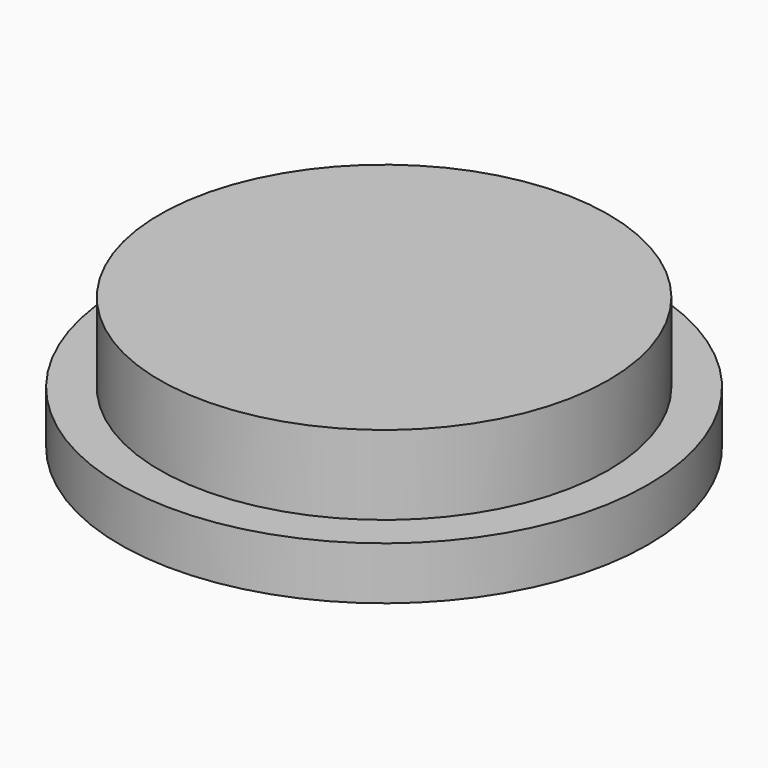
from build123d import *

# Parameters (mm, degrees)
F0_R     = 10
F1_DEPTH = 2.5
F2_R     = 10
F2_R_2   = 8.5
F3_DEPTH = 3
F4_R     = 2.5
F5_DEPTH = 4


with BuildPart() as f1:
    # F0 (on Top) → F1 (new body, symmetric)
    with BuildSketch(Plane.XY):
        Circle(F0_R)
    extrude(amount=F1_DEPTH, both=True)

    # F2 (on face) → F3 (cut)
    with BuildSketch(Plane.XY.offset(2.5)):
        Circle(F2_R)
        Circle(F2_R_2, mode=Mode.SUBTRACT)
    extrude(amount=-F3_DEPTH, mode=Mode.SUBTRACT)

    # F4 (on face) → F5 (cut)
    with BuildSketch(Plane(origin=(0, 0, -2.5), x_dir=(1, 0, 0), z_dir=(0, 0, -1))):
        Circle(F4_R)
    extrude(amount=-F5_DEPTH, mode=Mode.SUBTRACT)


solid = f1.part
